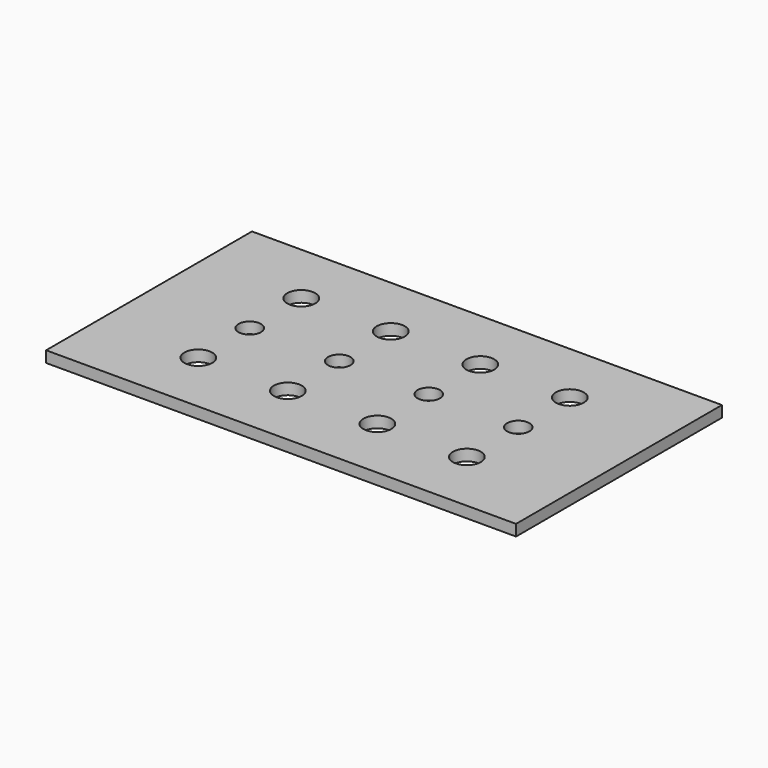
from build123d import *

# Parameters (mm, degrees)
F0_W     = 133.35
F0_H     = 73.025
F1_DEPTH = 3.175
F2_R     = 3.175
F3_DEPTH = 3.176
F4_R     = 3.96875
F5_DEPTH = 3.176


with BuildPart() as f1:
    # F0 (on Top) → F1 (new body)
    with BuildSketch(Plane.XY):
        with Locations((66.675, 36.5125)):
            Rectangle(F0_W, F0_H)
    extrude(amount=-F1_DEPTH)

    # F2 (on face) → F3 (cut, through all)
    with BuildSketch(Plane(origin=(0, 0, -3.175), x_dir=(1, 0, 0), z_dir=(0, 0, -1))):
        with Locations((28.575, -36.5125)):
            Circle(F2_R)
        with Locations((53.975, -36.5125)):
            Circle(F2_R)
        with Locations((79.375, -36.5125)):
            Circle(F2_R)
        with Locations((104.775, -36.5125)):
            Circle(F2_R)
    extrude(amount=-F3_DEPTH, mode=Mode.SUBTRACT)

    # F4 (on face) → F5 (cut, through all)
    with BuildSketch(Plane(origin=(0, 0, -3.175), x_dir=(1, 0, 0), z_dir=(0, 0, -1))):
        with Locations((28.575, -54.79161)):
            Circle(F4_R)
        with Locations((53.975, -54.79161)):
            Circle(F4_R)
        with Locations((79.375, -54.79161)):
            Circle(F4_R)
        with Locations((104.775, -54.79161)):
            Circle(F4_R)
        with Locations((104.775, -18.27911)):
            Circle(F4_R)
        with Locations((79.375, -18.27911)):
            Circle(F4_R)
        with Locations((53.975, -18.27911)):
            Circle(F4_R)
        with Locations((28.575, -18.27911)):
            Circle(F4_R)
    extrude(amount=-F5_DEPTH, mode=Mode.SUBTRACT)


solid = f1.part
